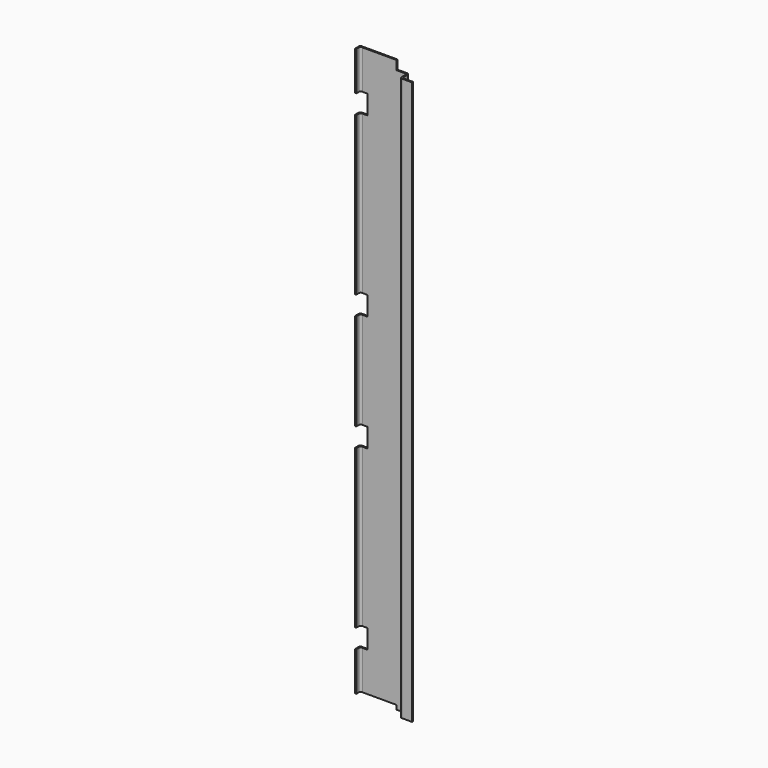
from build123d import *

# Parameters (mm, degrees)
F1_DEPTH = 2700
F2_W     = 175
F2_H     = 20
F3_DEPTH = 46.001
F4_W     = 29.575
F4_H     = 90
F4_W_2   = 9
F5_DEPTH = 46.001
F6_W     = 74
F6_H     = 62
F7_DEPTH = 46.001


with BuildPart() as f1:
    # F0 (on Top) → F1 (new body)
    with BuildSketch(Plane.XY):
        with BuildLine():
            Line((-127.6665818456, 21), (-127.6665818456, 0))
            Line((-127.6665818456, 0), (-121.6665818456, 0))
            Line((-121.6665818456, 0), (-121.6665818456, 15))
            ThreePointArc((-121.6665818456, 15), (-119.0305428763, 21.3639610307), (-112.6665818456, 24))
            Line((-112.6665818456, 24), (-12.6665818456, 24))
            Line((-12.6665818456, 24), (-12.6665818456, 30))
            Line((-12.6665818456, 30), (-118.6665818456, 30))
            ThreePointArc((-118.6665818456, 30), (-125.0305428763, 27.3639610307), (-127.6665818456, 21))
        make_face()
        with BuildLine():
            Line((93.3334181544, 30), (-12.6665818456, 30))
            Line((-12.6665818456, 30), (-12.6665818456, 24))
            Line((-12.6665818456, 24), (87.3334181544, 24))
            ThreePointArc((87.3334181544, 24), (93.697379185, 21.3639610307), (96.3334181544, 15))
            Line((96.3334181544, 15), (96.3334181544, -7))
            ThreePointArc((96.3334181544, -7), (98.9694571237, -13.3639610307), (105.3334181544, -16))
            Line((105.3334181544, -16), (152.3334181544, -16))
            Line((152.3334181544, -16), (152.3334181544, -10))
            Line((152.3334181544, -10), (111.3334181544, -10))
            ThreePointArc((111.3334181544, -10), (104.9694571237, -7.3639610307), (102.3334181544, -1))
            Line((102.3334181544, -1), (102.3334181544, 21))
            ThreePointArc((102.3334181544, 21), (99.697379185, 27.3639610307), (93.3334181544, 30))
        make_face()
    extrude(amount=F1_DEPTH)

    # F2 (on face) → F3 (cut, through all)
    with BuildSketch(Plane(origin=(0, 30, 0), x_dir=(-1, 0, 0), z_dir=(0, 1, 0))):
        with Locations((40.1665818456, 2690)):
            Rectangle(F2_W, F2_H)
        Polygon((-47.3334181544, 0), (118.6665818456, 0), (127.6665818456, 0), (127.6665818456, 20), (-47.3334181544, 20), align=None)
    extrude(amount=-F3_DEPTH, mode=Mode.SUBTRACT)

    # F4 (on face) → F5 (cut, through all)
    with BuildSketch(Plane(origin=(0, 30, 0), x_dir=(-1, 0, 0), z_dir=(0, 1, 0))):
        with Locations((103.8790818456, 2452)):
            Rectangle(F4_W, F4_H)
        with Locations((123.1665818456, 2452)):
            Rectangle(F4_W_2, F4_H)
        with Locations((123.1665818456, 248)):
            Rectangle(F4_W_2, F4_H)
        with Locations((103.8790818456, 248)):
            Rectangle(F4_W, F4_H)
        with Locations((103.8790818456, 1078)):
            Rectangle(F4_W, F4_H)
        with Locations((123.1665818456, 1078)):
            Rectangle(F4_W_2, F4_H)
        with Locations((103.8790818456, 1622)):
            Rectangle(F4_W, F4_H)
        with Locations((123.1665818456, 1622)):
            Rectangle(F4_W_2, F4_H)
    extrude(amount=-F5_DEPTH, mode=Mode.SUBTRACT)

    # F6 (on face) → F7 (cut, through all)
    with BuildSketch(Plane(origin=(0, 30, 0), x_dir=(-1, 0, 0), z_dir=(0, 1, 0))):
        Polygon((-47.3334181544, 2680), (-47.3334181544, 2700), (-93.3334181544, 2700), (-93.3334181544, 2638), (-47.3334181544, 2638), align=None)
        with Locations((-130.3334181544, 2669)):
            Rectangle(F6_W, F6_H)
    extrude(amount=-F7_DEPTH, mode=Mode.SUBTRACT)


solid = f1.part
